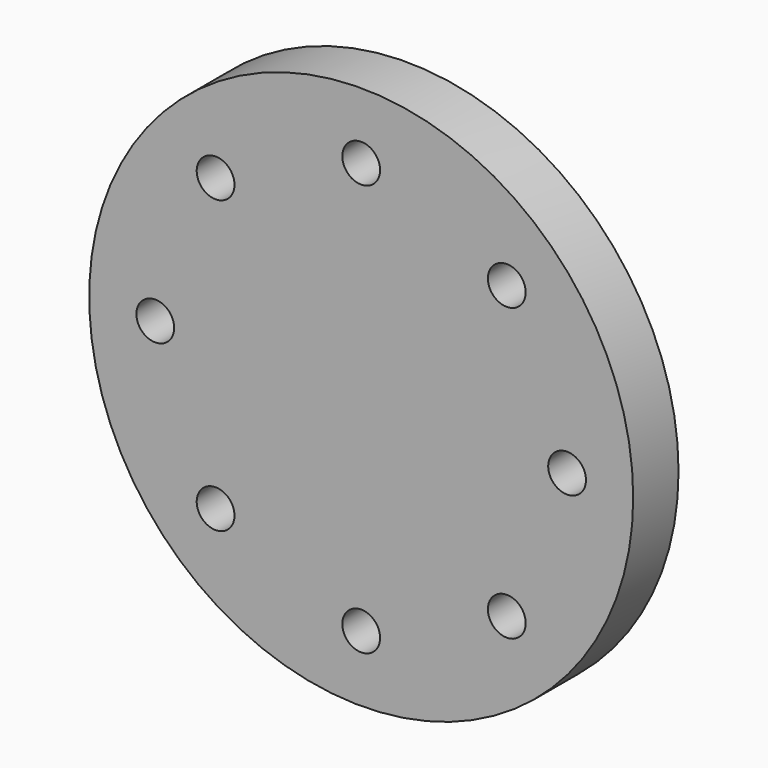
from build123d import *

# Parameters (mm, degrees)
F0_R     = 72
F0_R_2   = 5
F1_DEPTH = 7.5


with BuildPart() as f1:
    # F0 (on Front) → F1 (new body, symmetric)
    with BuildSketch(Plane.XZ):
        Circle(F0_R)
        with Locations((-38.53732, -38.53732)):
            Circle(F0_R_2, mode=Mode.SUBTRACT)
        with Locations((0, -54.5)):
            Circle(F0_R_2, mode=Mode.SUBTRACT)
        with Locations((38.53732, -38.53732)):
            Circle(F0_R_2, mode=Mode.SUBTRACT)
        with Locations((-54.5, 0)):
            Circle(F0_R_2, mode=Mode.SUBTRACT)
        with Locations((-38.53732, 38.53732)):
            Circle(F0_R_2, mode=Mode.SUBTRACT)
        with Locations((54.5, 0)):
            Circle(F0_R_2, mode=Mode.SUBTRACT)
        with Locations((0, 54.5)):
            Circle(F0_R_2, mode=Mode.SUBTRACT)
        with Locations((38.53732, 38.53732)):
            Circle(F0_R_2, mode=Mode.SUBTRACT)
    extrude(amount=F1_DEPTH, both=True)


solid = f1.part
